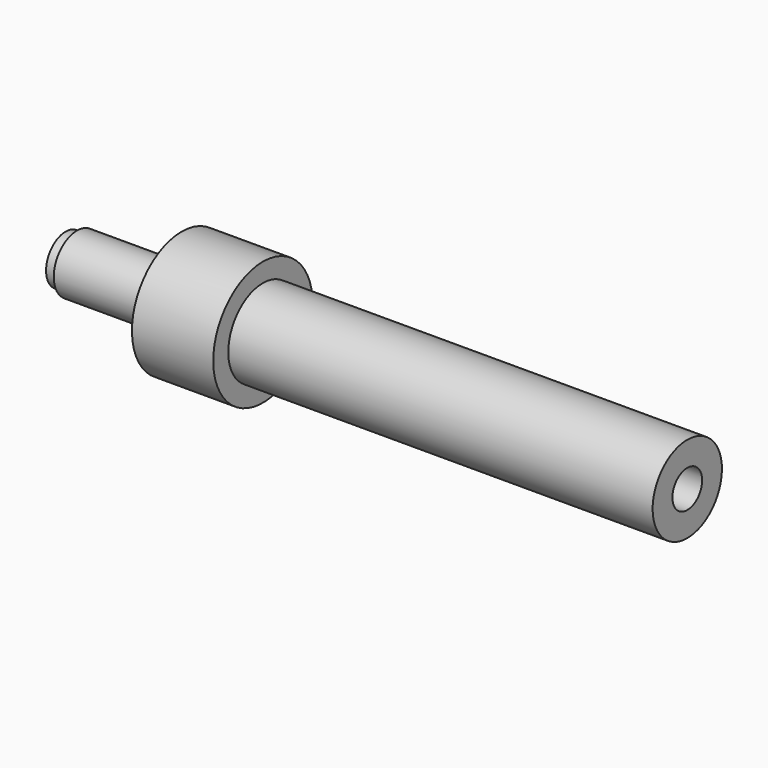
from build123d import *

# Parameters (mm, degrees)
F0_W     = 37.22
F0_H     = 2.17
F2_W     = 1
F2_H     = 2.14
F6_R     = 0.2
F7_DEPTH = 54.531


with BuildPart() as f3:
    # F0 (on Front) → F3 (revolve)
    with BuildSketch(Plane.XZ):
        with Locations((18.61, 2.715)):
            Rectangle(F0_W, F0_H)
    revolve(axis=Axis((9.868568, 0, 0), (-1, 0, 0)))


with BuildPart() as f4:
    # F1 (on Front) → F4 (revolve)
    with BuildSketch(Plane.XZ):
        Polygon((-16.31, 0), (0, 0), (0, 5.45), (-7.13, 5.45), (-7.13, 2.545), (-16.31, 2.545), align=None)
    revolve(axis=Axis((-8.155, 0, 0), (1, 0, 0)))


with BuildPart() as f5:
    # F2 (on Front) → F5 (revolve)
    with BuildSketch(Plane.XZ):
        with Locations((-16.81, 1.07)):
            Rectangle(F2_W, F2_H)
    revolve(axis=Axis((-16.81, 0, 0), (-1, 0, 0)))


with BuildPart() as f7_tool:
    # F6 (on face) → F7 (new body, through all)
    with BuildSketch(Plane(origin=(-17.31, 0, 0), x_dir=(0, -1, 0), z_dir=(-1, 0, 0))):
        Circle(F6_R)
    extrude(amount=-F7_DEPTH)


with BuildPart() as f4_1:
    add(f4.part)

    # F7: cut by f7_tool
    add(f7_tool.part, mode=Mode.SUBTRACT)


with BuildPart() as f5_1:
    add(f5.part)

    # F7: cut by f7_tool
    add(f7_tool.part, mode=Mode.SUBTRACT)


solid = Compound([f3.part, f4_1.part, f5_1.part])
